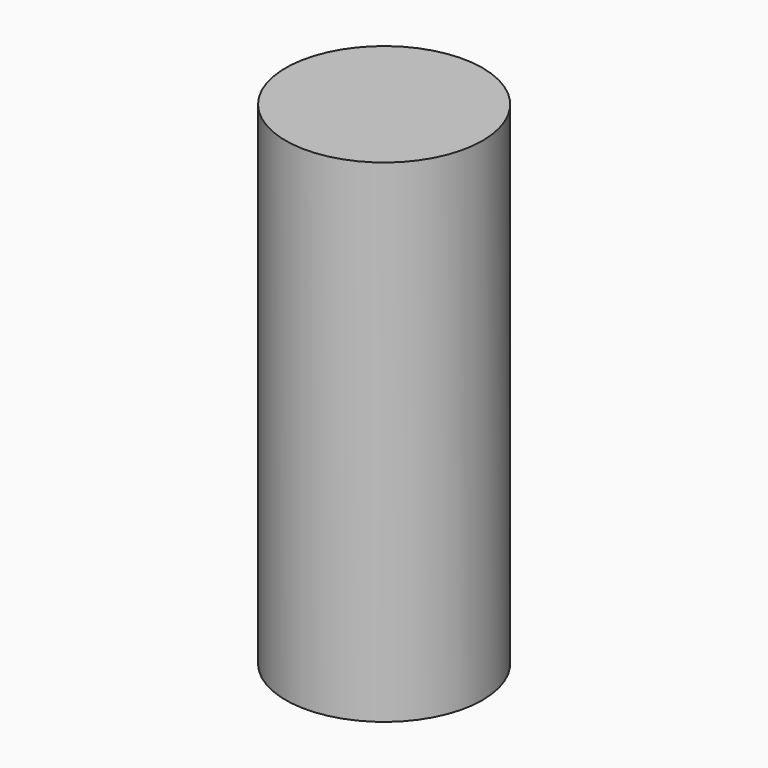
from build123d import *

# Parameters (mm, degrees)
CYLINDER_R     = 2
CYLINDER_DEPTH = 10


with BuildPart() as part:
    # Cylinder → Cylinder (new body)
    with BuildSketch(Plane.XY):
        Circle(CYLINDER_R)
    extrude(amount=CYLINDER_DEPTH)


solid = part.part
